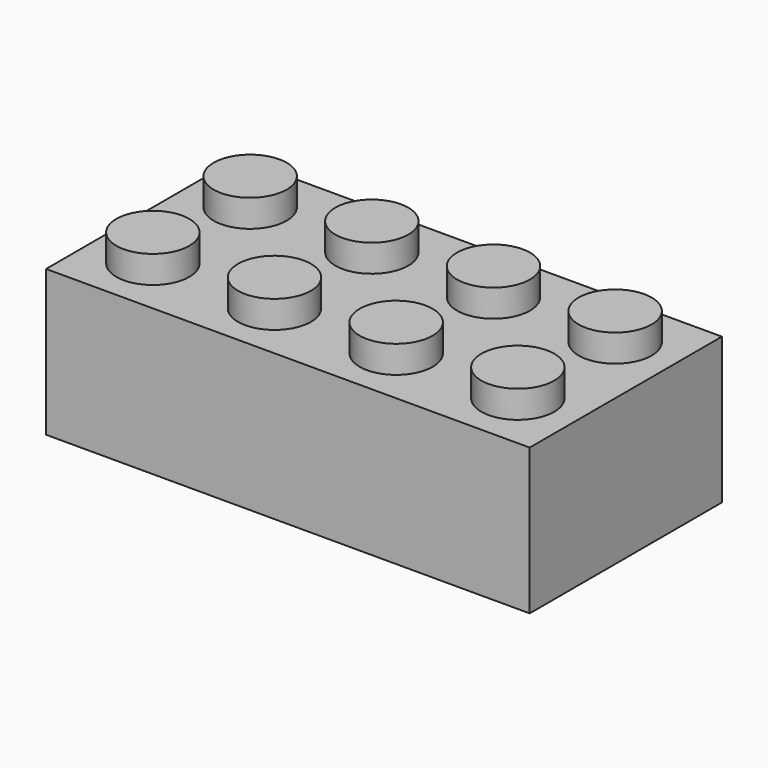
from build123d import *

# Parameters (mm, degrees)
F0_W     = 807.72
F0_H     = 401.32
F1_DEPTH = 243.84
F2_R     = 60.96
F3_DEPTH = 45.72
F4_W     = 746.76
F4_H     = 340.36
F4_R     = 82.55
F4_R_2   = 60.96
F5_DEPTH = 213.36


with BuildPart() as f1:
    # F0 (on Top) → F1 (new body)
    with BuildSketch(Plane.XY):
        with Locations((-63.75885, -17.946723)):
            Rectangle(F0_W, F0_H)
    extrude(amount=F1_DEPTH)

    # F2 (on face) → F3 (join)
    with BuildSketch(Plane.XY.offset(243.84)):
        with Locations((-368.55885, 83.653277)):
            Circle(F2_R)
        with Locations((-165.35885, 83.653277)):
            Circle(F2_R)
        with Locations((37.84115, 83.653277)):
            Circle(F2_R)
        with Locations((241.04115, 83.653277)):
            Circle(F2_R)
        with Locations((241.04115, -119.546723)):
            Circle(F2_R)
        with Locations((37.84115, -119.546723)):
            Circle(F2_R)
        with Locations((-165.35885, -119.546723)):
            Circle(F2_R)
        with Locations((-368.55885, -119.546723)):
            Circle(F2_R)
    extrude(amount=F3_DEPTH)

    # F4 (on face) → F5 (cut)
    with BuildSketch(Plane.XY):
        with Locations((-63.75885, -17.946723)):
            Rectangle(F4_W, F4_H)
        with Locations((-266.95885, -17.946723)):
            Circle(F4_R, mode=Mode.SUBTRACT)
        with Locations((-63.75885, -17.946723)):
            Circle(F4_R, mode=Mode.SUBTRACT)
        with Locations((139.44115, -17.946723)):
            Circle(F4_R, mode=Mode.SUBTRACT)
        with Locations((-266.95885, -17.946723)):
            Circle(F4_R_2)
        with Locations((-63.75885, -17.946723)):
            Circle(F4_R_2)
        with Locations((139.44115, -17.946723)):
            Circle(F4_R_2)
    extrude(amount=F5_DEPTH, mode=Mode.SUBTRACT)


solid = f1.part
